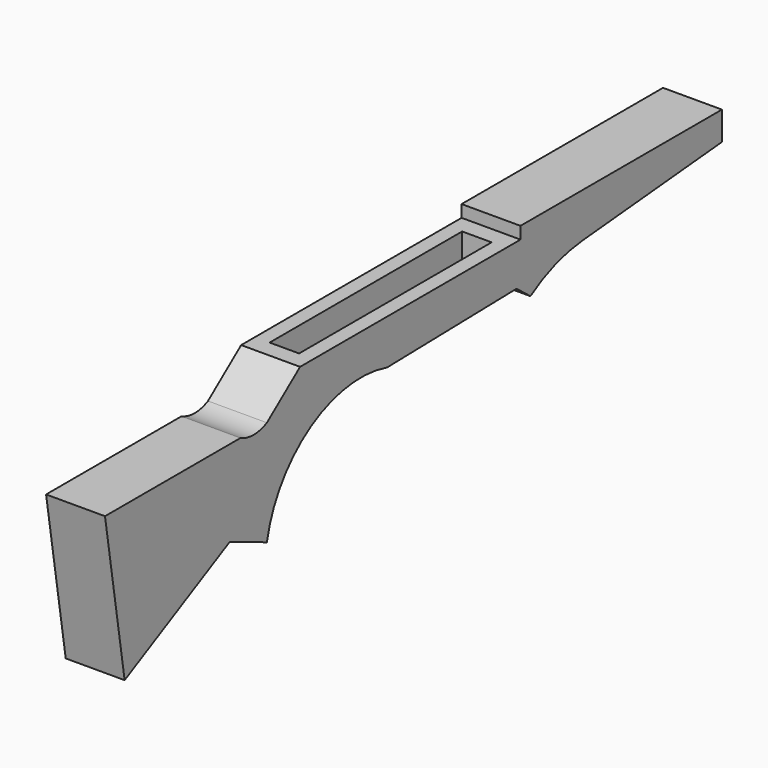
from build123d import *

# Parameters (mm, degrees)
F1_DEPTH = 2.54
F3_DEPTH = 25.4


with BuildPart() as f1:
    # F0 (on Right) → F1 (new body, symmetric)
    with BuildSketch(Plane.YZ):
        with BuildLine():
            Line((-43.832254, 7.411134), (-58.425114, 7.411134))
            Line((-58.425114, 7.411134), (-56.307647, -5.898658))
            Line((-56.307647, -5.898658), (-44.975612, 0))
            Line((-44.975612, 0), (-40.973853, -1.664879))
            ThreePointArc((-40.973853, -1.664879), (-36.253593, 5.184437), (-28.015766, 6.338645))
            Line((-28.015766, 6.338645), (-14.066866, 6.648439))
            Line((-14.066866, 6.648439), (-12.56959, 5.472009))
            ThreePointArc((-12.56959, 5.472009), (-9.908052, 6.78319), (-7.008282, 7.411134))
            Line((-7.008282, 7.411134), (8.071418, 8.787404))
            Line((8.071418, 8.787404), (8.071418, 11.247213))
            Line((8.071418, 11.247213), (-13.639072, 11.247213))
            Line((-13.639072, 11.247213), (-13.639072, 10.202761))
            Line((-13.639072, 10.202761), (-37.399668, 10.202761))
            Line((-37.399668, 10.202761), (-40.973853, 7.411134))
            ThreePointArc((-40.973853, 7.411134), (-42.403053, 7.069715), (-43.832254, 7.411134))
        make_face()
    extrude(amount=F1_DEPTH, both=True)

    # F2 (on face) → F3 (cut)
    with BuildSketch(Plane.XY.offset(10.202761)):
        Polygon((-1.27, -15.166366), (-1.27, -25.51937), (-1.27, -35.916388), (1.27, -35.916388), (1.27, -25.51937), (1.27, -15.166366), align=None)
    extrude(amount=-F3_DEPTH, mode=Mode.SUBTRACT)


solid = f1.part
